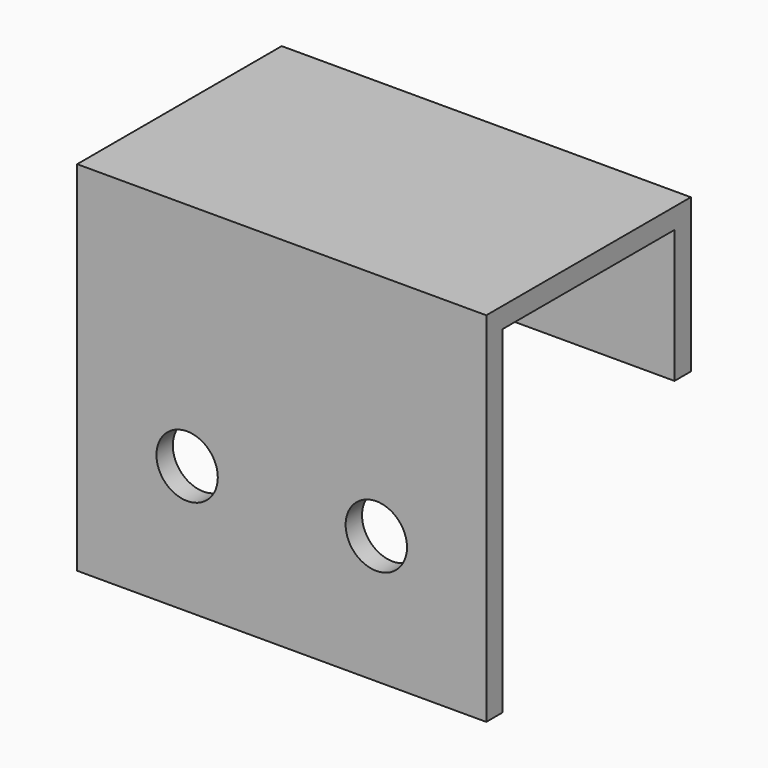
from build123d import *

# Parameters (mm, degrees)
PAD004_DEPTH = 20
SKETCH013_R  = 3
HOLE_DEPTH   = 25
HOLE_TIPS_R  = 3


with BuildPart() as part:
    # Sketch014 → Pad004 (new body, symmetric)
    with BuildSketch(Plane.YZ):
        Polygon((0, -35), (0, 0), (25, 0), (25, -15), (23, -15), (23, -2), (2, -2), (2, -35), align=None)
    extrude(amount=PAD004_DEPTH, both=True)

    # Sketch013 → Hole (cut)
    with BuildSketch(Plane.XZ):
        with Locations((-9.25, -22.5)):
            Circle(SKETCH013_R)
        with Locations((9.25, -22.5)):
            Circle(SKETCH013_R)
    extrude(amount=-HOLE_DEPTH, mode=Mode.SUBTRACT)

    # Hole tips → Hole tip 1 section 0
    with BuildSketch(Plane.XZ.offset(-25), mode=Mode.PRIVATE) as hole_tip_1_s0:
        with Locations((-9.25, -22.5)):
            Circle(HOLE_TIPS_R)
    loft([hole_tip_1_s0.sketch, Vertex(-9.25, 26.802582, -22.5)], mode=Mode.SUBTRACT)

    # Hole tips → Hole tip 2 section 0
    with BuildSketch(Plane.XZ.offset(-25), mode=Mode.PRIVATE) as hole_tip_2_s0:
        with Locations((9.25, -22.5)):
            Circle(HOLE_TIPS_R)
    loft([hole_tip_2_s0.sketch, Vertex(9.25, 26.802582, -22.5)], mode=Mode.SUBTRACT)


with BuildPart() as part_1:
    # Body009 placement: moved
    add(part.part.moved(Location((0, 83, 0))))


with BuildPart() as part_2:
    # Clone009 placement: moved
    add(part_1.part.moved(Location((0, -83, 0))))


with BuildPart() as part_3:
    # Body012 placement: moved
    add(part_2.part.moved(Location((225, 83, 50))))


solid = part_3.part
